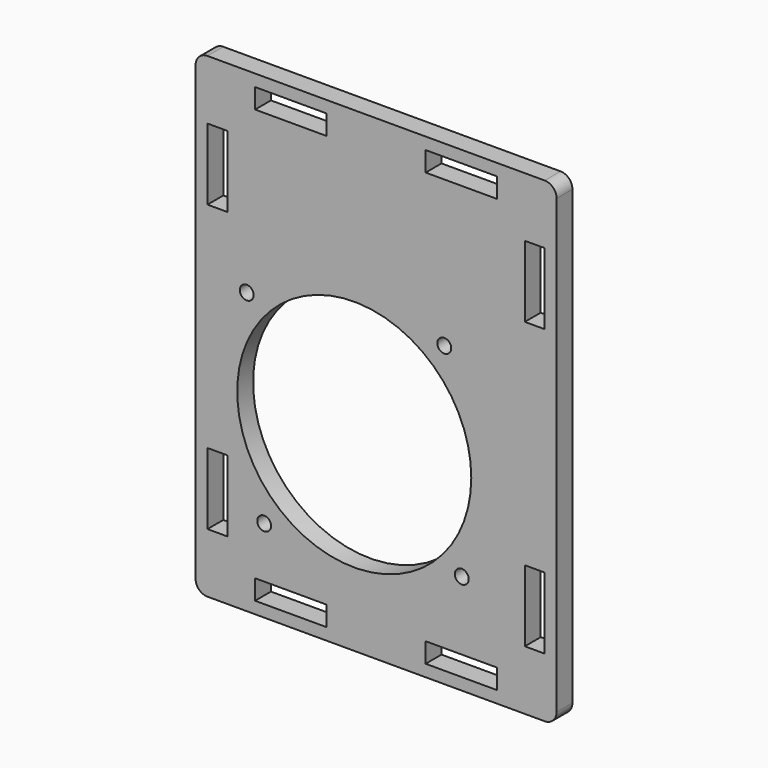
from build123d import *

# Parameters (mm, degrees)
F0_W     = 5
F0_H     = 18
F0_R     = 1.75
F0_W_2   = 18
F0_H_2   = 5
F0_R_2   = 29.5
F1_DEPTH = 5


with BuildPart() as f1:
    # F0 (on Front) → F1 (new body)
    with BuildSketch(Plane.XZ):
        with BuildLine():
            Line((42.5, 72), (-42.5, 72))
            ThreePointArc((-42.5, 72), (-44.62132, 71.12132), (-45.5, 69))
            Line((-45.5, 69), (-45.5, -45))
            ThreePointArc((-45.5, -45), (-44.62132, -47.12132), (-42.5, -48))
            Line((-42.5, -48), (42.5, -48))
            ThreePointArc((42.5, -48), (44.62132, -47.12132), (45.5, -45))
            Line((45.5, -45), (45.5, 69))
            ThreePointArc((45.5, 69), (44.62132, 71.12132), (42.5, 72))
        make_face()
        with Locations((-40, -24)):
            Rectangle(F0_W, F0_H, mode=Mode.SUBTRACT)
        with Locations((-28.2, -27.1)):
            Circle(F0_R, mode=Mode.SUBTRACT)
        with Locations((-21.5, -42.5)):
            Rectangle(F0_W_2, F0_H_2, mode=Mode.SUBTRACT)
        with Locations((-5.5, 0)):
            Circle(F0_R_2, mode=Mode.SUBTRACT)
        with Locations((21.5, -42.5)):
            Rectangle(F0_W_2, F0_H_2, mode=Mode.SUBTRACT)
        with Locations((21.6, -22.7)):
            Circle(F0_R, mode=Mode.SUBTRACT)
        with Locations((40, -24)):
            Rectangle(F0_W, F0_H, mode=Mode.SUBTRACT)
        with Locations((-32.6, 22.7)):
            Circle(F0_R, mode=Mode.SUBTRACT)
        with Locations((-40, 48)):
            Rectangle(F0_W, F0_H, mode=Mode.SUBTRACT)
        with Locations((-21.5, 66.5)):
            Rectangle(F0_W_2, F0_H_2, mode=Mode.SUBTRACT)
        with Locations((17.2, 27.1)):
            Circle(F0_R, mode=Mode.SUBTRACT)
        with Locations((21.5, 66.5)):
            Rectangle(F0_W_2, F0_H_2, mode=Mode.SUBTRACT)
        with Locations((40, 48)):
            Rectangle(F0_W, F0_H, mode=Mode.SUBTRACT)
    extrude(amount=F1_DEPTH)


solid = f1.part
